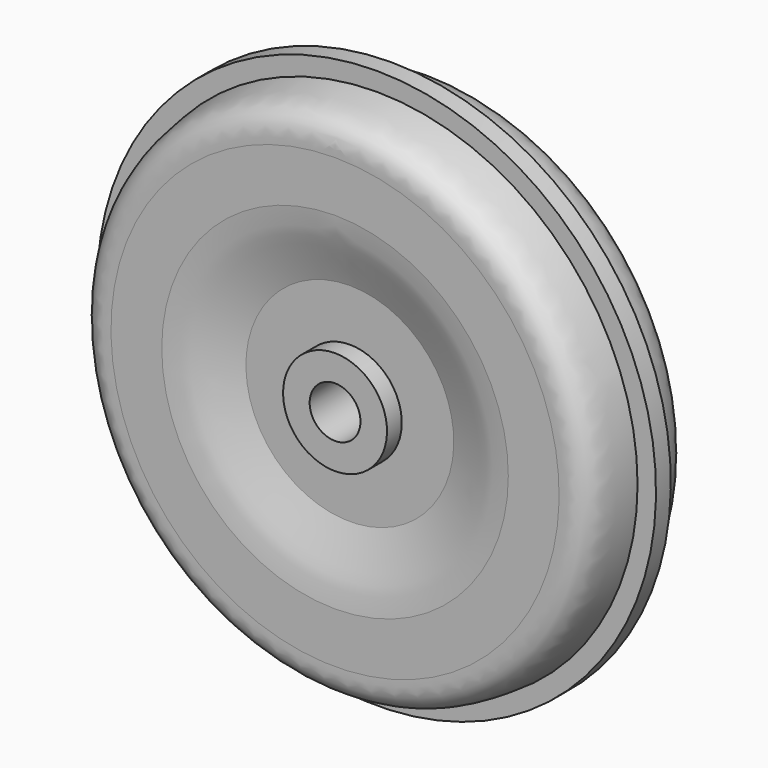
from build123d import *

# Parameters (mm, degrees)
F2_R     = 11
F3_DEPTH = 53.0453037885


with BuildPart() as f1:
    # F0 (on Right) → F1 (revolve)
    with BuildSketch(Plane.YZ):
        with BuildLine():
            Line((-26.5, 0), (0, 0))
            Line((0, 0), (26.5, 0))
            Line((26.5, 0), (26.5, 22.5))
            Line((26.5, 22.5), (18.5, 22.5))
            Line((18.5, 22.5), (18.5, 45))
            add(Edge.make_bspline(
                [(18.5, 45), (19.5294032027, 48.9127575131), (22.161666724, 55.8894054865), (24.4873005161, 63.090857729), (26.1477720941, 68.9369086166), (26.4605557105, 72.6163447861), (26.5, 75.0345438719)],
                knots=[0, 0, 0, 0, 0.3090965399, 0.5575720867, 0.7747005836, 1, 1, 1, 1], degree=3))
            Line((26.5, 75.0345438719), (26.5, 97.0345438719))
            add(Edge.make_bspline(
                [(4, 113), (9.3687376029, 112.4098545459), (18.1441221183, 111.3277676815), (24.0944618424, 107.8956142299), (26.5461108875, 102.9075068186), (26.5959951506, 100.8855119386), (26.5, 97.0345438719)],
                knots=[0, 0, 0, 0, 0.3471593385, 0.577462282, 0.7693182742, 1, 1, 1, 1], degree=3))
            Line((4, 113), (4, 121))
            Line((4, 121), (0, 121))
            Line((0, 121), (-4, 121))
            Line((-4, 121), (-4, 113))
            add(Edge.make_bspline(
                [(-4, 113), (-9.3687376029, 112.4098545459), (-18.1441221183, 111.3277676815), (-24.0944618424, 107.8956142299), (-26.5461108875, 102.9075068186), (-26.5959951506, 100.8855119386), (-26.5, 97.0345438719)],
                knots=[0, 0, 0, 0, 0.3471593385, 0.577462282, 0.7693182742, 1, 1, 1, 1], degree=3))
            Line((-26.5, 97.0345438719), (-26.5, 75.0345438719))
            add(Edge.make_bspline(
                [(-18.5, 45), (-19.5294032027, 48.9127575131), (-22.161666724, 55.8894054865), (-24.4873005161, 63.090857729), (-26.1477720941, 68.9369086166), (-26.4605557105, 72.6163447861), (-26.5, 75.0345438719)],
                knots=[0, 0, 0, 0, 0.3090965399, 0.5575720867, 0.7747005836, 1, 1, 1, 1], degree=3))
            Line((-18.5, 45), (-18.5, 22.5))
            Line((-18.5, 22.5), (-26.5, 22.5))
            Line((-26.5, 22.5), (-26.5, 0))
        make_face()
    revolve(axis=Axis((0, 13.25, 0), (0, 1, 0)))

    # F2 (on face) → F3 (cut, through all)
    with BuildSketch(Plane.XZ.offset(26.5)):
        Circle(F2_R)
    extrude(amount=-F3_DEPTH, mode=Mode.SUBTRACT)


solid = f1.part
